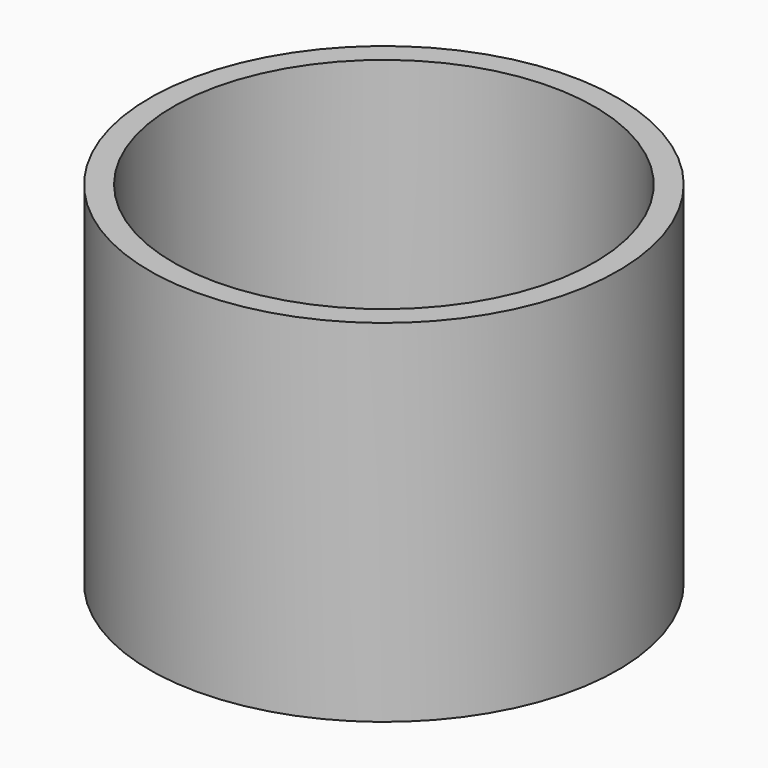
from build123d import *

# Parameters (mm, degrees)
F0_W = 20
F0_H = 30
F2_T = -2


with BuildPart() as f1:
    # F0 (on Right) → F1 (revolve)
    with BuildSketch(Plane.YZ):
        with Locations((-10, 15)):
            Rectangle(F0_W, F0_H)
    revolve(axis=Axis((0, 0, 15), (0, 0, -1)))

    # F2
    f2_openings = [f1.faces().sort_by_distance(p)[0] for p in [
        (0, 0, 30),
    ]]
    offset(amount=F2_T, openings=f2_openings)


solid = f1.part
